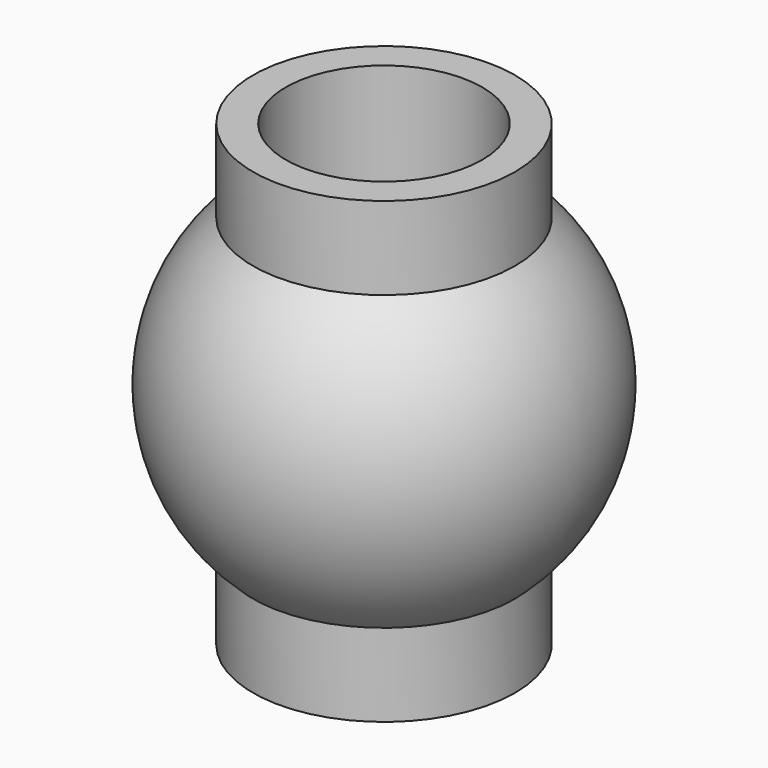
from build123d import *


with BuildPart() as f1:
    # F0 (on Front) → F1 (revolve)
    with BuildSketch(Plane.XZ):
        with BuildLine():
            Line((2, -3.5), (2, -2.236068))
            ThreePointArc((2, -2.236068), (3, 0), (2, 2.236068))
            Line((2, 2.236068), (2, 3.5))
            Line((2, 3.5), (1.5, 3.5))
            Line((1.5, 3.5), (1.5, -3.5))
            Line((1.5, -3.5), (2, -3.5))
        make_face()
    revolve(axis=Axis((0, 0, -1.621335), (0, 0, -1)))


solid = f1.part
